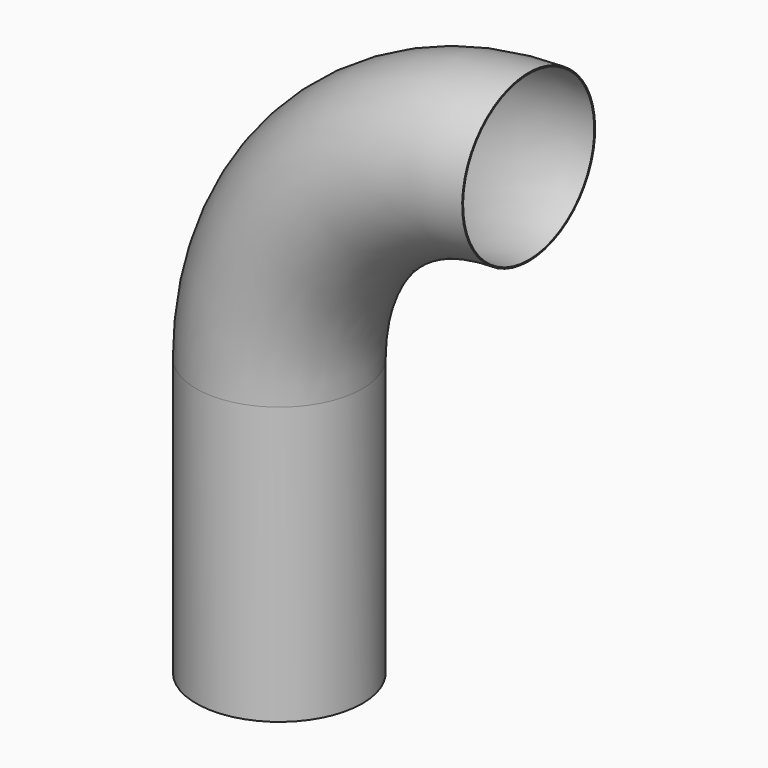
from build123d import *

# Parameters (mm, degrees)
F0_R     = 457.2
F0_R_2   = 450.85001
F1_DEPTH = 1524
F2_R     = 457.2
F2_R_2   = 450.85001
F3_ANGLE = 90


with BuildPart() as f1:
    # F0 (on Top) → F1 (new body)
    with BuildSketch(Plane.XY):
        Circle(F0_R)
        Circle(F0_R_2, mode=Mode.SUBTRACT)
    extrude(amount=F1_DEPTH)


with BuildPart() as f3:
    # F2 (on face) → F3 (revolve)
    with BuildSketch(Plane.XY.offset(1524)):
        Circle(F2_R)
        Circle(F2_R_2, mode=Mode.SUBTRACT)
    revolve(axis=Axis((1371.6, 684.465885, 1524), (0, 1, 0)), revolution_arc=F3_ANGLE)


solid = Compound([f1.part, f3.part])
